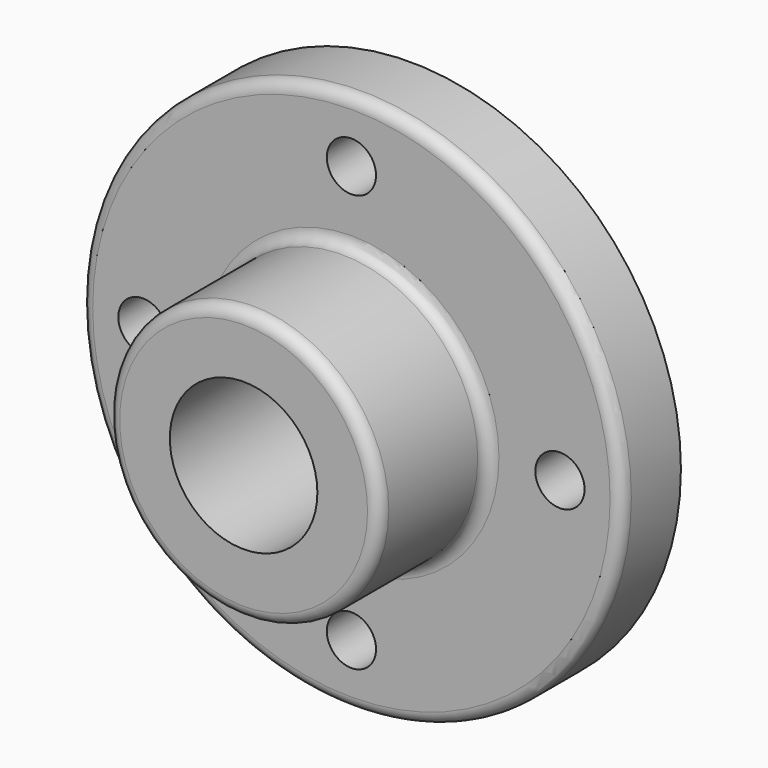
from build123d import *

# Parameters (mm, degrees)
F2_R     = 19.05
F3_DEPTH = 50.8
F4_R     = 6.35
F5_DEPTH = 50.8
F6_R     = 3.048


with BuildPart() as f1:
    # F0 (on Top) → F1 (revolve)
    with BuildSketch(Plane.XY):
        Polygon((-26.3054174867, -3.2169155025), (-26.3054174867, -57.0649155025), (8.7465825133, -57.0649155025), (8.7465825133, -22.2669155025), (43.5445825133, -22.2669155025), (43.5445825133, -3.2169155025), align=None)
    revolve(axis=Axis((-26.3054174867, -30.1409155025, 0), (0, 1, 0)))

    # F2 (on face) → F3 (cut, symmetric)
    with BuildSketch(Plane.XZ.offset(22.2669155025)):
        with Locations((-26.3054174867, 0)):
            Circle(F2_R)
    extrude(amount=F3_DEPTH, both=True, mode=Mode.SUBTRACT)

    # F4 (on face) → F5 (cut, symmetric)
    with BuildSketch(Plane.XZ.offset(22.2669155025)):
        with Locations((-80.1534174867, 0)):
            Circle(F4_R)
        with Locations((27.5425825133, 0)):
            Circle(F4_R)
        with Locations((-26.3054174867, 53.848)):
            Circle(F4_R)
        with Locations((-26.3054174867, -53.848)):
            Circle(F4_R)
    extrude(amount=F5_DEPTH, both=True, mode=Mode.SUBTRACT)

    # F6
    f6_edges = [f1.edges().sort_by_distance(p)[0] for p in [
        (-96.155417, -22.266916, 0),
        (-61.357417, -22.266916, 0),
        (-61.357417, -57.064916, 0),
    ]]
    fillet(f6_edges, radius=F6_R)


solid = f1.part
